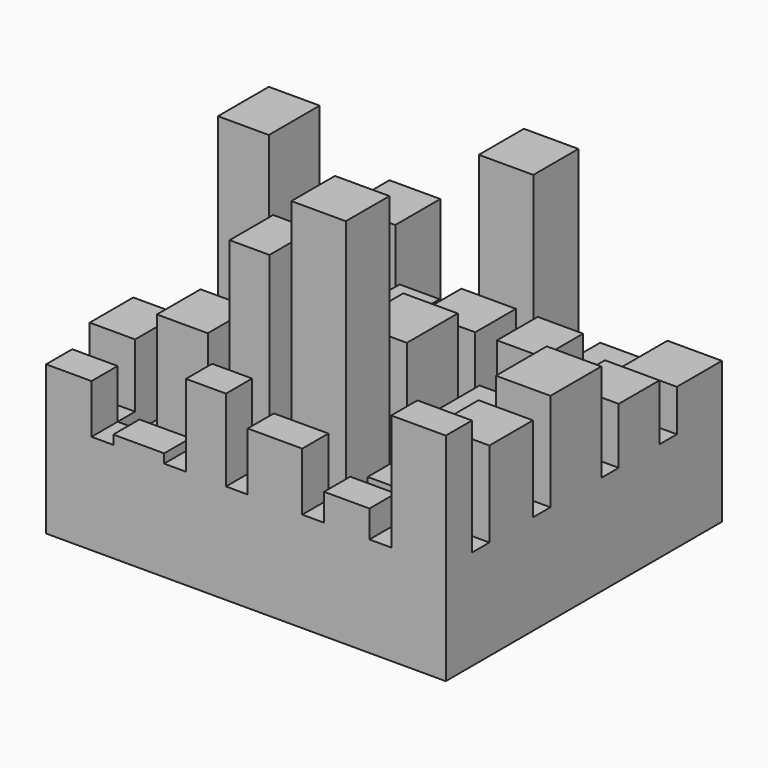
from build123d import *

# Parameters (mm, degrees)
F0_W      = 25
F0_H      = 31
F1_DEPTH  = 25
F0_H_2    = 28
F2_DEPTH  = 30
F0_H_3    = 35
F3_DEPTH  = 17
F0_H_4    = 30
F4_DEPTH  = 45
F0_H_5    = 18
F5_DEPTH  = 37
F0_W_2    = 28
F6_DEPTH  = 15
F0_W_3    = 22
F7_DEPTH  = 55
F0_W_4    = 30
F8_DEPTH  = 42
F9_DEPTH  = 25
F10_DEPTH = 74
F11_DEPTH = 57
F12_DEPTH = 64
F13_DEPTH = 41
F14_DEPTH = 33
F15_DEPTH = 110
F16_DEPTH = 140
F17_DEPTH = 50
F18_DEPTH = 61
F19_DEPTH = 20
F0_H_6    = 12
F0_W_5    = 12
F20_DEPTH = 10
F21_DEPTH = 45
F22_DEPTH = 10
F24_W     = 190
F24_H     = 160
F25_DEPTH = 35


with BuildPart() as f1:
    # F0 (on Top) → F1 (new body)
    with BuildSketch(Plane.XY):
        with Locations((-97.5, 79.5)):
            Rectangle(F0_W, F0_H)
    extrude(amount=F1_DEPTH)



with BuildPart() as f2:
    # F0 (on Top) → F2 (new body)
    with BuildSketch(Plane.XY):
        with Locations((-97.5, 38)):
            Rectangle(F0_W, F0_H_2)
    extrude(amount=F2_DEPTH)


with BuildPart() as f3:
    # F0 (on Top) → F3 (new body)
    with BuildSketch(Plane.XY):
        with Locations((-97.5, -5.5)):
            Rectangle(F0_W, F0_H_3)
    extrude(amount=F3_DEPTH)


with BuildPart() as f4:
    # F0 (on Top) → F4 (new body)
    with BuildSketch(Plane.XY):
        with Locations((-97.5, -50)):
            Rectangle(F0_W, F0_H_4)
    extrude(amount=F4_DEPTH)


with BuildPart() as f5:
    # F0 (on Top) → F5 (new body)
    with BuildSketch(Plane.XY):
        with Locations((-97.5, -86)):
            Rectangle(F0_W, F0_H_5)
    extrude(amount=F5_DEPTH)


with BuildPart() as f6:
    # F0 (on Top) → F6 (new body)
    with BuildSketch(Plane.XY):
        with Locations((-59, -86)):
            Rectangle(F0_W_2, F0_H_5)
    extrude(amount=F6_DEPTH)


with BuildPart() as f7:
    # F0 (on Top) → F7 (new body)
    with BuildSketch(Plane.XY):
        with Locations((-22, -86)):
            Rectangle(F0_W_3, F0_H_5)
    extrude(amount=F7_DEPTH)


with BuildPart() as f8:
    # F0 (on Top) → F8 (new body)
    with BuildSketch(Plane.XY):
        with Locations((16, -86)):
            Rectangle(F0_W_4, F0_H_5)
    extrude(amount=F8_DEPTH)


with BuildPart() as f9:
    # F0 (on Top) → F9 (new body)
    with BuildSketch(Plane.XY):
        with Locations((55.5, -86)):
            Rectangle(F0_W, F0_H_5)
    extrude(amount=F9_DEPTH)


with BuildPart() as f10:
    # F0 (on Top) → F10 (new body)
    with BuildSketch(Plane.XY):
        with Locations((95, -86)):
            Rectangle(F0_W_4, F0_H_5)
    extrude(amount=F10_DEPTH)


with BuildPart() as f11:
    # F0 (on Top) → F11 (new body)
    with BuildSketch(Plane.XY):
        with Locations((95, -50)):
            Rectangle(F0_W_4, F0_H_4)
    extrude(amount=F11_DEPTH)


with BuildPart() as f12:
    # F0 (on Top) → F12 (new body)
    with BuildSketch(Plane.XY):
        with Locations((95, -5.5)):
            Rectangle(F0_W_4, F0_H_3)
    extrude(amount=F12_DEPTH)


with BuildPart() as f12b:
    # F0 (on Top) → F12, piece 2 (new body)
    with BuildSketch(Plane.XY):
        with Locations((16, -5.5)):
            Rectangle(F0_W_4, F0_H_3)
    extrude(amount=F12_DEPTH)


with BuildPart() as f13:
    # F0 (on Top) → F13 (new body)
    with BuildSketch(Plane.XY):
        with Locations((95, 38)):
            Rectangle(F0_W_4, F0_H_2)
    extrude(amount=F13_DEPTH)


with BuildPart() as f13b:
    # F0 (on Top) → F13, piece 2 (new body)
    with BuildSketch(Plane.XY):
        with Locations((-22, 38)):
            Rectangle(F0_W_3, F0_H_2)
    extrude(amount=F13_DEPTH)


with BuildPart() as f14:
    # F0 (on Top) → F14 (new body)
    with BuildSketch(Plane.XY):
        with Locations((95, 79.5)):
            Rectangle(F0_W_4, F0_H)
    extrude(amount=F14_DEPTH)


with BuildPart() as f14b:
    # F0 (on Top) → F14, piece 2 (new body)
    with BuildSketch(Plane.XY):
        with Locations((55.5, -5.5)):
            Rectangle(F0_W, F0_H_3)
    extrude(amount=F14_DEPTH)


with BuildPart() as f15:
    # F0 (on Top) → F15 (new body)
    with BuildSketch(Plane.XY):
        with Locations((16, 79.5)):
            Rectangle(F0_W_4, F0_H)
    extrude(amount=F15_DEPTH)


with BuildPart() as f15b:
    # F0 (on Top) → F15, piece 2 (new body)
    with BuildSketch(Plane.XY):
        with Locations((-22, -50)):
            Rectangle(F0_W_3, F0_H_4)
    extrude(amount=F15_DEPTH)


with BuildPart() as f16:
    # F0 (on Top) → F16 (new body)
    with BuildSketch(Plane.XY):
        with Locations((-59, -5.5)):
            Rectangle(F0_W_2, F0_H_3)
    extrude(amount=F16_DEPTH)


with BuildPart() as f16b:
    # F0 (on Top) → F16, piece 2 (new body)
    with BuildSketch(Plane.XY):
        with Locations((16, -50)):
            Rectangle(F0_W_4, F0_H_4)
    extrude(amount=F16_DEPTH)


with BuildPart() as f17:
    # F0 (on Top) → F17 (new body)
    with BuildSketch(Plane.XY):
        with Locations((16, 38)):
            Rectangle(F0_W_4, F0_H_2)
    extrude(amount=F17_DEPTH)


with BuildPart() as f17b:
    # F0 (on Top) → F17, piece 2 (new body)
    with BuildSketch(Plane.XY):
        with Locations((55.5, 38)):
            Rectangle(F0_W, F0_H_2)
    extrude(amount=F17_DEPTH)


with BuildPart() as f18:
    # F0 (on Top) → F18 (new body)
    with BuildSketch(Plane.XY):
        with Locations((-59, 79.5)):
            Rectangle(F0_W_2, F0_H)
    extrude(amount=F18_DEPTH)


with BuildPart() as f18b:
    # F0 (on Top) → F18, piece 2 (new body)
    with BuildSketch(Plane.XY):
        with Locations((-59, 38)):
            Rectangle(F0_W_2, F0_H_2)
    extrude(amount=F18_DEPTH)


with BuildPart() as f18c:
    # F0 (on Top) → F18, piece 3 (new body)
    with BuildSketch(Plane.XY):
        with Locations((-22, -5.5)):
            Rectangle(F0_W_3, F0_H_3)
    extrude(amount=F18_DEPTH)


with BuildPart() as f18d:
    # F0 (on Top) → F18, piece 4 (new body)
    with BuildSketch(Plane.XY):
        with Locations((-59, -50)):
            Rectangle(F0_W_2, F0_H_4)
    extrude(amount=F18_DEPTH)


with BuildPart() as f19:
    # F0 (on Top) → F19 (new body)
    with BuildSketch(Plane.XY):
        with Locations((-22, 79.5)):
            Rectangle(F0_W_3, F0_H)
    extrude(amount=F19_DEPTH)


with BuildPart() as f19b:
    # F0 (on Top) → F19, piece 2 (new body)
    with BuildSketch(Plane.XY):
        with Locations((55.5, 79.5)):
            Rectangle(F0_W, F0_H)
    extrude(amount=F19_DEPTH)


with BuildPart() as f19c:
    # F0 (on Top) → F19, piece 3 (new body)
    with BuildSketch(Plane.XY):
        with Locations((55.5, -50)):
            Rectangle(F0_W, F0_H_4)
    extrude(amount=F19_DEPTH)


with BuildPart() as f1_1:
    add(f1.part)

    add(f2.part)  # F20 merges F2

    add(f3.part)  # F20 merges F3

    add(f4.part)  # F20 merges F4

    add(f5.part)  # F20 merges F5

    add(f6.part)  # F20 merges F6

    add(f7.part)  # F20 merges F7

    add(f8.part)  # F20 merges F8

    add(f9.part)  # F20 merges F9

    add(f10.part)  # F20 merges F10

    add(f11.part)  # F20 merges F11

    add(f12.part)  # F20 merges F12

    add(f13.part)  # F20 merges F13

    add(f14.part)  # F20 merges F14

    add(f15.part)  # F20 merges F15

    add(f18.part)  # F20 merges F18

    add(f19.part)  # F20 merges F19

    add(f19b.part)  # F20 merges F19b
    # F0 (on Top) → F20 (join)
    with BuildSketch(Plane.XY):
        with Locations((-97.5, 58)):
            Rectangle(F0_W, F0_H_6)
        with Locations((-97.5, 18)):
            Rectangle(F0_W, F0_H_6)
        with Locations((-97.5, -29)):
            Rectangle(F0_W, F0_H_6)
        with Locations((-97.5, -71)):
            Rectangle(F0_W, F0_H_6)
        with Locations((-79, -86)):
            Rectangle(F0_W_5, F0_H_5)
        with Locations((-39, -86)):
            Rectangle(F0_W_5, F0_H_5)
        with Locations((-5, -86)):
            Rectangle(F0_W_5, F0_H_5)
        with Locations((37, -86)):
            Rectangle(F0_W_5, F0_H_5)
        with Locations((74, -86)):
            Rectangle(F0_W_5, F0_H_5)
        with Locations((95, -71)):
            Rectangle(F0_W_4, F0_H_6)
        with Locations((95, -29)):
            Rectangle(F0_W_4, F0_H_6)
        with Locations((95, 18)):
            Rectangle(F0_W_4, F0_H_6)
        with Locations((95, 58)):
            Rectangle(F0_W_4, F0_H_6)
        with Locations((74, 79.5)):
            Rectangle(F0_W_5, F0_H)
        with Locations((37, 79.5)):
            Rectangle(F0_W_5, F0_H)
        with Locations((-5, 79.5)):
            Rectangle(F0_W_5, F0_H)
        with Locations((-39, 79.5)):
            Rectangle(F0_W_5, F0_H)
        with Locations((-79, 79.5)):
            Rectangle(F0_W_5, F0_H)
    extrude(amount=F20_DEPTH)


    add(f12b.part)  # F21 merges F12b

    add(f13b.part)  # F21 merges F13b

    add(f14b.part)  # F21 merges F14b

    add(f15b.part)  # F21 merges F15b

    add(f16.part)  # F21 merges F16

    add(f16b.part)  # F21 merges F16b

    add(f17.part)  # F21 merges F17

    add(f17b.part)  # F21 merges F17b

    add(f18b.part)  # F21 merges F18b

    add(f18c.part)  # F21 merges F18c

    add(f18d.part)  # F21 merges F18d

    add(f19c.part)  # F21 merges F19c
    # F0 (on Top) → F21 (join)
    with BuildSketch(Plane.XY):
        with Locations((95, -86)):
            Rectangle(F0_W_4, F0_H_5)
        with Locations((-97.5, -86)):
            Rectangle(F0_W, F0_H_5)
        with Locations((95, 79.5)):
            Rectangle(F0_W_4, F0_H)
        with Locations((-97.5, 79.5)):
            Rectangle(F0_W, F0_H)
        with Locations((74, -86)):
            Rectangle(F0_W_5, F0_H_5)
        with Locations((55.5, -86)):
            Rectangle(F0_W, F0_H_5)
        with Locations((37, -86)):
            Rectangle(F0_W_5, F0_H_5)
        with Locations((16, -86)):
            Rectangle(F0_W_4, F0_H_5)
        with Locations((-5, -86)):
            Rectangle(F0_W_5, F0_H_5)
        with Locations((-22, -86)):
            Rectangle(F0_W_3, F0_H_5)
        with Locations((-39, -86)):
            Rectangle(F0_W_5, F0_H_5)
        with Locations((-59, -86)):
            Rectangle(F0_W_2, F0_H_5)
        with Locations((-79, -86)):
            Rectangle(F0_W_5, F0_H_5)
        with Locations((74, 79.5)):
            Rectangle(F0_W_5, F0_H)
        with Locations((55.5, 79.5)):
            Rectangle(F0_W, F0_H)
        with Locations((37, 79.5)):
            Rectangle(F0_W_5, F0_H)
        with Locations((16, 79.5)):
            Rectangle(F0_W_4, F0_H)
        with Locations((-5, 79.5)):
            Rectangle(F0_W_5, F0_H)
        with Locations((-22, 79.5)):
            Rectangle(F0_W_3, F0_H)
        with Locations((-39, 79.5)):
            Rectangle(F0_W_5, F0_H)
        with Locations((-59, 79.5)):
            Rectangle(F0_W_2, F0_H)
        with Locations((-79, 79.5)):
            Rectangle(F0_W_5, F0_H)
        with Locations((95, -71)):
            Rectangle(F0_W_4, F0_H_6)
        with Locations((95, -50)):
            Rectangle(F0_W_4, F0_H_4)
        with Locations((95, -29)):
            Rectangle(F0_W_4, F0_H_6)
        with Locations((95, -5.5)):
            Rectangle(F0_W_4, F0_H_3)
        with Locations((95, 18)):
            Rectangle(F0_W_4, F0_H_6)
        with Locations((95, 38)):
            Rectangle(F0_W_4, F0_H_2)
        with Locations((95, 58)):
            Rectangle(F0_W_4, F0_H_6)
        with Locations((-97.5, -71)):
            Rectangle(F0_W, F0_H_6)
        with Locations((-97.5, -50)):
            Rectangle(F0_W, F0_H_4)
        with Locations((-97.5, -29)):
            Rectangle(F0_W, F0_H_6)
        with Locations((-97.5, -5.5)):
            Rectangle(F0_W, F0_H_3)
        with Locations((-97.5, 18)):
            Rectangle(F0_W, F0_H_6)
        with Locations((-97.5, 38)):
            Rectangle(F0_W, F0_H_2)
        with Locations((-97.5, 58)):
            Rectangle(F0_W, F0_H_6)
        with Locations((55.5, -50)):
            Rectangle(F0_W, F0_H_4)
        with Locations((16, -50)):
            Rectangle(F0_W_4, F0_H_4)
        with Locations((-22, -50)):
            Rectangle(F0_W_3, F0_H_4)
        with Locations((-79, 58)):
            Rectangle(F0_W_5, F0_H_6)
        with Locations((55.5, 38)):
            Rectangle(F0_W, F0_H_2)
        with Locations((16, -5.5)):
            Rectangle(F0_W_4, F0_H_3)
        with Locations((16, 58)):
            Rectangle(F0_W_4, F0_H_6)
        with Locations((-59, -29)):
            Rectangle(F0_W_2, F0_H_6)
        with Locations((74, -50)):
            Rectangle(F0_W_5, F0_H_4)
        with Locations((-22, -29)):
            Rectangle(F0_W_3, F0_H_6)
        with Locations((-59, -71)):
            Rectangle(F0_W_2, F0_H_6)
        with Locations((55.5, 58)):
            Rectangle(F0_W, F0_H_6)
        with Locations((37, -71)):
            Rectangle(F0_W_5, F0_H_6)
        with Locations((-22, 38)):
            Rectangle(F0_W_3, F0_H_2)
        with Locations((-59, -5.5)):
            Rectangle(F0_W_2, F0_H_3)
        with Locations((74, -29)):
            Rectangle(F0_W_5, F0_H_6)
        with Locations((-22, -5.5)):
            Rectangle(F0_W_3, F0_H_3)
        with Locations((-59, -50)):
            Rectangle(F0_W_2, F0_H_4)
        with Locations((74, -71)):
            Rectangle(F0_W_5, F0_H_6)
        with Locations((16, 38)):
            Rectangle(F0_W_4, F0_H_2)
        with Locations((37, -29)):
            Rectangle(F0_W_5, F0_H_6)
        with Locations((-5, -71)):
            Rectangle(F0_W_5, F0_H_6)
        with Locations((-59, 38)):
            Rectangle(F0_W_2, F0_H_2)
        with Locations((37, -5.5)):
            Rectangle(F0_W_5, F0_H_3)
        with Locations((-5, -50)):
            Rectangle(F0_W_5, F0_H_4)
        with Locations((-59, 58)):
            Rectangle(F0_W_2, F0_H_6)
        with Locations((74, 38)):
            Rectangle(F0_W_5, F0_H_2)
        with Locations((-5, -29)):
            Rectangle(F0_W_5, F0_H_6)
        with Locations((-39, -71)):
            Rectangle(F0_W_5, F0_H_6)
        with Locations((74, 58)):
            Rectangle(F0_W_5, F0_H_6)
        with Locations((37, 38)):
            Rectangle(F0_W_5, F0_H_2)
        with Locations((-5, -5.5)):
            Rectangle(F0_W_5, F0_H_3)
        with Locations((-39, -50)):
            Rectangle(F0_W_5, F0_H_4)
        with Locations((37, 58)):
            Rectangle(F0_W_5, F0_H_6)
        with Locations((-39, -29)):
            Rectangle(F0_W_5, F0_H_6)
        with Locations((-79, -71)):
            Rectangle(F0_W_5, F0_H_6)
        with Locations((55.5, -71)):
            Rectangle(F0_W, F0_H_6)
        with Locations((-5, 38)):
            Rectangle(F0_W_5, F0_H_2)
        with Locations((-39, -5.5)):
            Rectangle(F0_W_5, F0_H_3)
        with Locations((-79, -50)):
            Rectangle(F0_W_5, F0_H_4)
        with Locations((-5, 58)):
            Rectangle(F0_W_5, F0_H_6)
        with Locations((-39, 18)):
            Rectangle(F0_W_5, F0_H_6)
        with Locations((-79, -29)):
            Rectangle(F0_W_5, F0_H_6)
        with Locations((-39, 38)):
            Rectangle(F0_W_5, F0_H_2)
        with Locations((-79, -5.5)):
            Rectangle(F0_W_5, F0_H_3)
        with Locations((55.5, -29)):
            Rectangle(F0_W, F0_H_6)
        with Locations((16, -71)):
            Rectangle(F0_W_4, F0_H_6)
        with Locations((-39, 58)):
            Rectangle(F0_W_5, F0_H_6)
        with Locations((-79, 18)):
            Rectangle(F0_W_5, F0_H_6)
        with Locations((55.5, -5.5)):
            Rectangle(F0_W, F0_H_3)
        with Locations((-22, -71)):
            Rectangle(F0_W_3, F0_H_6)
        with Locations((-79, 38)):
            Rectangle(F0_W_5, F0_H_2)
        with Locations((74, -5.5)):
            Rectangle(F0_W_5, F0_H_3)
        with Locations((37, -50)):
            Rectangle(F0_W_5, F0_H_4)
        with Locations((-22, 58)):
            Rectangle(F0_W_3, F0_H_6)
        with Locations((-59, 18)):
            Rectangle(F0_W_2, F0_H_6)
        with Locations((16, -29)):
            Rectangle(F0_W_4, F0_H_6)
        with Locations((-22, 18)):
            Rectangle(F0_W_3, F0_H_6)
        with Locations((16, 18)):
            Rectangle(F0_W_4, F0_H_6)
        with Locations((74, 18)):
            Rectangle(F0_W_5, F0_H_6)
        with Locations((37, 18)):
            Rectangle(F0_W_5, F0_H_6)
        with Locations((-5, 18)):
            Rectangle(F0_W_5, F0_H_6)
        with Locations((55.5, 18)):
            Rectangle(F0_W, F0_H_6)
    extrude(amount=-F21_DEPTH)


with BuildPart() as f22:
    # F0 (on Top) → F22 (new body)
    with BuildSketch(Plane.XY):
        with Locations((-79, -71)):
            Rectangle(F0_W_5, F0_H_6)
        with Locations((-79, -50)):
            Rectangle(F0_W_5, F0_H_4)
        with Locations((-79, -29)):
            Rectangle(F0_W_5, F0_H_6)
        with Locations((-79, -5.5)):
            Rectangle(F0_W_5, F0_H_3)
        with Locations((-79, 18)):
            Rectangle(F0_W_5, F0_H_6)
        with Locations((-79, 38)):
            Rectangle(F0_W_5, F0_H_2)
        with Locations((-39, 58)):
            Rectangle(F0_W_5, F0_H_6)
        with Locations((-39, 18)):
            Rectangle(F0_W_5, F0_H_6)
        with Locations((-39, 38)):
            Rectangle(F0_W_5, F0_H_2)
        with Locations((-39, -5.5)):
            Rectangle(F0_W_5, F0_H_3)
        with Locations((-39, -29)):
            Rectangle(F0_W_5, F0_H_6)
        with Locations((-39, -50)):
            Rectangle(F0_W_5, F0_H_4)
        with Locations((-39, -71)):
            Rectangle(F0_W_5, F0_H_6)
        with Locations((-59, -71)):
            Rectangle(F0_W_2, F0_H_6)
        with Locations((-59, -29)):
            Rectangle(F0_W_2, F0_H_6)
        with Locations((-59, 18)):
            Rectangle(F0_W_2, F0_H_6)
        with Locations((-59, 58)):
            Rectangle(F0_W_2, F0_H_6)
        with Locations((-79, 58)):
            Rectangle(F0_W_5, F0_H_6)
        with Locations((-22, 58)):
            Rectangle(F0_W_3, F0_H_6)
        with Locations((-22, 18)):
            Rectangle(F0_W_3, F0_H_6)
        with Locations((-22, -29)):
            Rectangle(F0_W_3, F0_H_6)
        with Locations((-22, -71)):
            Rectangle(F0_W_3, F0_H_6)
        with Locations((-5, -50)):
            Rectangle(F0_W_5, F0_H_4)
        with Locations((-5, -71)):
            Rectangle(F0_W_5, F0_H_6)
        with Locations((16, -71)):
            Rectangle(F0_W_4, F0_H_6)
        with Locations((37, -71)):
            Rectangle(F0_W_5, F0_H_6)
        with Locations((55.5, -71)):
            Rectangle(F0_W, F0_H_6)
        with Locations((74, -71)):
            Rectangle(F0_W_5, F0_H_6)
        with Locations((74, -50)):
            Rectangle(F0_W_5, F0_H_4)
        with Locations((-5, -29)):
            Rectangle(F0_W_5, F0_H_6)
        with Locations((16, -29)):
            Rectangle(F0_W_4, F0_H_6)
        with Locations((37, -29)):
            Rectangle(F0_W_5, F0_H_6)
        with Locations((74, -29)):
            Rectangle(F0_W_5, F0_H_6)
        with Locations((55.5, -29)):
            Rectangle(F0_W, F0_H_6)
        with Locations((-5, 58)):
            Rectangle(F0_W_5, F0_H_6)
        with Locations((-5, 38)):
            Rectangle(F0_W_5, F0_H_2)
        with Locations((-5, 18)):
            Rectangle(F0_W_5, F0_H_6)
        with Locations((-5, -5.5)):
            Rectangle(F0_W_5, F0_H_3)
        with Locations((16, 18)):
            Rectangle(F0_W_4, F0_H_6)
        with Locations((16, 58)):
            Rectangle(F0_W_4, F0_H_6)
        with Locations((74, -5.5)):
            Rectangle(F0_W_5, F0_H_3)
        with Locations((37, -5.5)):
            Rectangle(F0_W_5, F0_H_3)
        with Locations((37, 18)):
            Rectangle(F0_W_5, F0_H_6)
        with Locations((37, 38)):
            Rectangle(F0_W_5, F0_H_2)
        with Locations((74, 38)):
            Rectangle(F0_W_5, F0_H_2)
        with Locations((37, 58)):
            Rectangle(F0_W_5, F0_H_6)
        with Locations((55.5, 58)):
            Rectangle(F0_W, F0_H_6)
        with Locations((74, 58)):
            Rectangle(F0_W_5, F0_H_6)
        with Locations((55.5, 18)):
            Rectangle(F0_W, F0_H_6)
        with Locations((74, 18)):
            Rectangle(F0_W_5, F0_H_6)
        with Locations((37, -50)):
            Rectangle(F0_W_5, F0_H_4)
    extrude(amount=-F22_DEPTH)


with BuildPart() as f1_2:
    add(f1_1.part)

    # F23: cut F22
    add(f22.part, mode=Mode.SUBTRACT)

    # F24 (on face) → F25 (cut, through all)
    with BuildSketch(Plane(origin=(0, 0, -45), x_dir=(1, 0, 0), z_dir=(0, 0, -1))):
        Rectangle(F24_W, F24_H)
    extrude(amount=-F25_DEPTH, mode=Mode.SUBTRACT)


solid = Compound([f22.part, f1_2.part])
